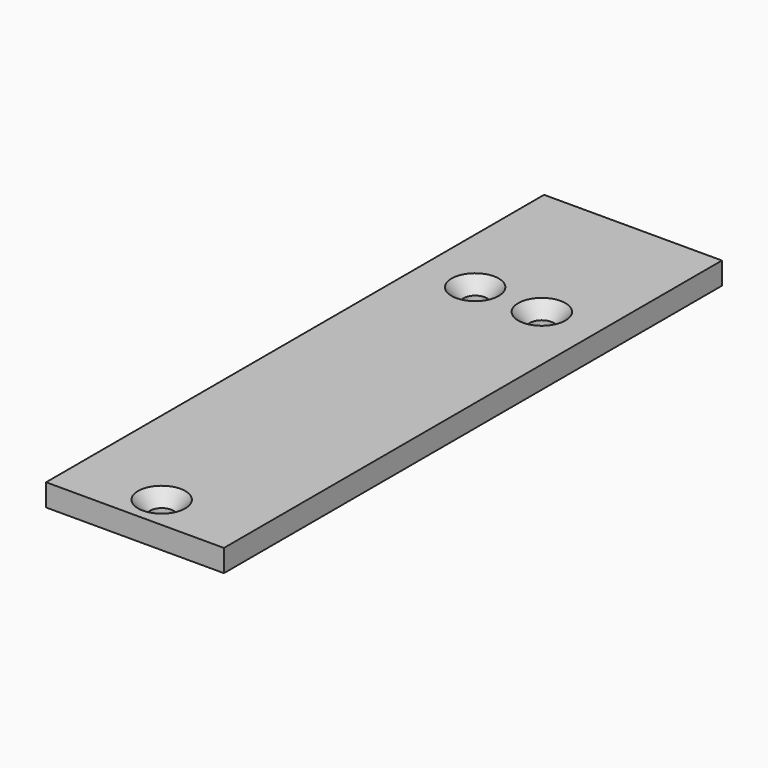
from build123d import *

# Parameters (mm, degrees)
F0_W           = 50.8
F0_H           = 177.8
F0_R           = 3.571875
F1_DEPTH       = 6.35
F2_D           = 6.7564
F2_CSINK_D     = 13.4874
F2_CSINK_ANGLE = 82


with BuildPart() as f1:
    # F0 (on Top) → F1 (new body)
    with BuildSketch(Plane.XY):
        Rectangle(F0_W, F0_H)
        with Locations((0, -79.375)):
            Circle(F0_R, mode=Mode.SUBTRACT)
        with Locations((-9.525, 44.45)):
            Circle(F0_R, mode=Mode.SUBTRACT)
        with Locations((9.525, 44.45)):
            Circle(F0_R, mode=Mode.SUBTRACT)
        with Locations((-9.525, 44.45)):
            Circle(F0_R)
        with Locations((9.525, 44.45)):
            Circle(F0_R)
        with Locations((0, -79.375)):
            Circle(F0_R)
    extrude(amount=-F1_DEPTH)

    # F2 (through all)
    with Locations(Plane.XY):
        with Locations((-9.525, 44.45), (9.525, 44.45), (0, -79.375)):
            CounterSinkHole(F2_D / 2, F2_CSINK_D / 2, counter_sink_angle=F2_CSINK_ANGLE)


solid = f1.part
